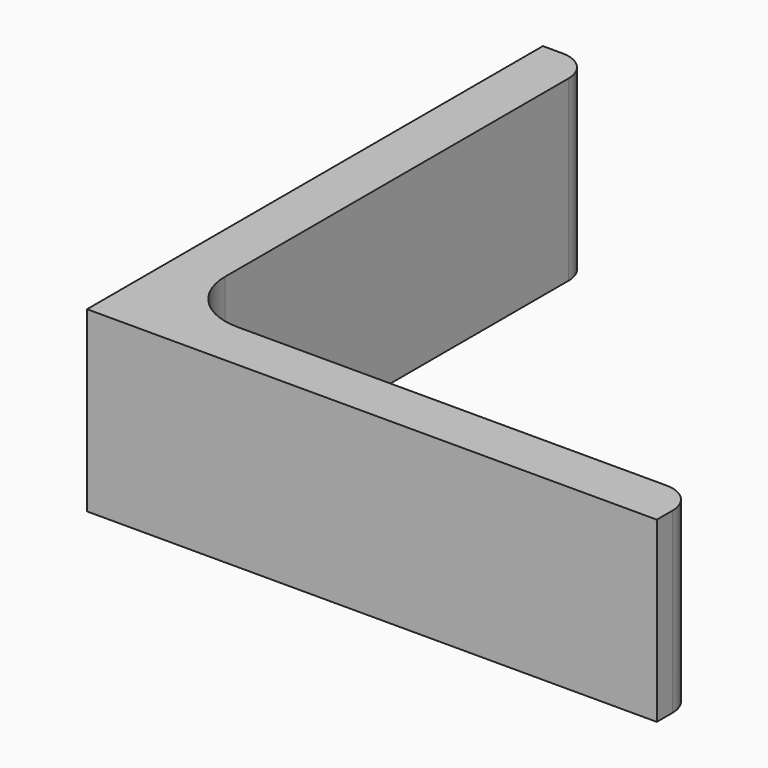
from build123d import *

# Parameters (mm, degrees)
EXTRUDE_DEPTH = 50


with BuildPart() as part:
    # Sketch → Extrude (new body)
    with BuildSketch(Plane.XY):
        with BuildLine():
            Line((0, 0), (160, 0))
            Line((160, 0), (160, 5.5))
            ThreePointArc((160, 5.5), (157.510408, 11.510408), (151.5, 14))
            Line((151.5, 14), (31, 14))
            ThreePointArc((14, 31), (18.979185, 18.979185), (31, 14))
            Line((14, 151.5), (14, 31))
            ThreePointArc((14, 151.5), (11.510408, 157.510408), (5.5, 160))
            Line((0, 160), (5.5, 160))
            Line((0, 0), (0, 160))
        make_face()
    extrude(amount=EXTRUDE_DEPTH)


solid = part.part
